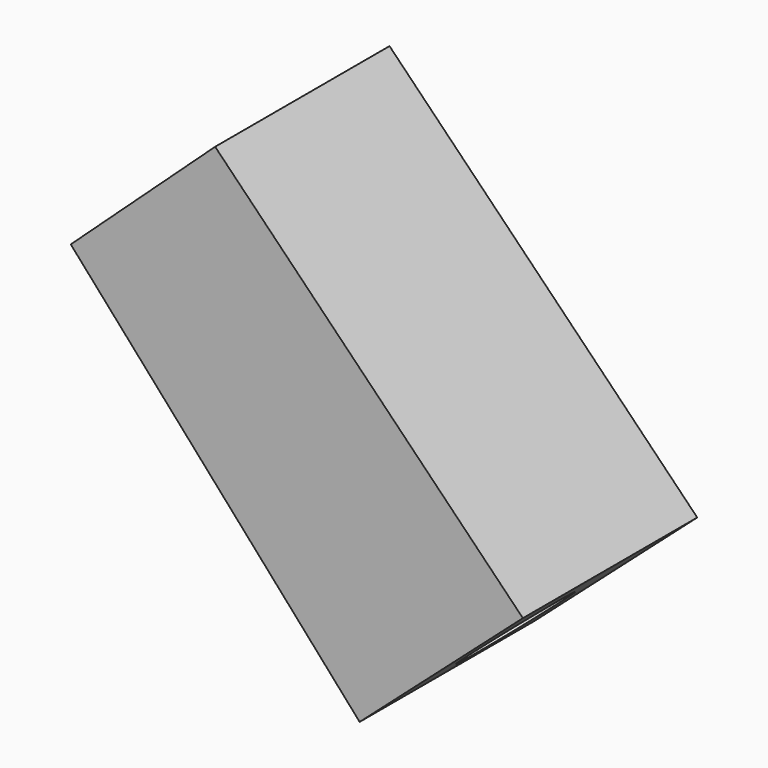
from build123d import *

# Parameters (mm, degrees)
F1_DEPTH = 25.4
F2_R     = 6.35
F3_DEPTH = 63.6736984522


with BuildPart() as f1:
    # F0 (on Front) → F1 (new body)
    with BuildSketch(Plane.XZ):
        Polygon((-16.8366376311, 28.3488668501), (-33.6623217992, 12.8628648567), (0, -25.1830033958), (19.0229341263, -8.3518424962), align=None)
    extrude(amount=F1_DEPTH)

    # F2 (on face) → F3 (cut, through all)
    with BuildSketch(Plane(origin=(-21.8472334982, 0, 23.7372209396), x_dir=(0.7357921423, 0, 0.6772074448), z_dir=(-0.6772074448, 0, 0.7357921423))):
        with Locations((-6.5326440295, -12.5557470533)):
            Circle(F2_R)
    extrude(amount=-F3_DEPTH, mode=Mode.SUBTRACT)


solid = f1.part
